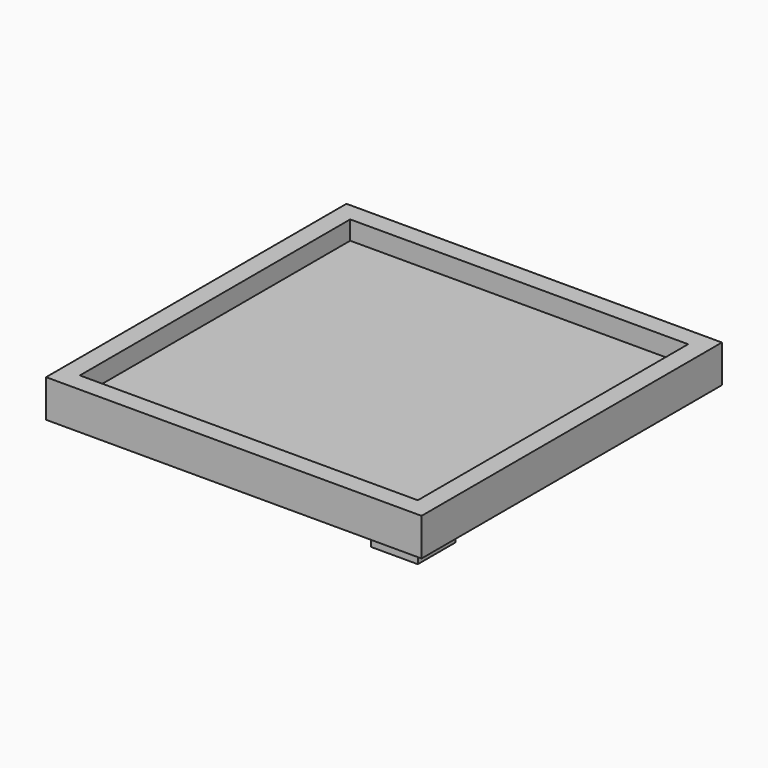
from build123d import *

# Parameters (mm, degrees)
F0_W     = 50.8
F0_H     = 50.8
F1_DEPTH = 2.54
F2_W     = 2.54
F2_H     = 45.72
F3_DEPTH = 2.54
F4_W     = 6.35
F4_H     = 6.35
F5_DEPTH = 2.54


with BuildPart() as f1:
    # F0 (on Top) → F1 (new body)
    with BuildSketch(Plane.XY):
        Rectangle(F0_W, F0_H)
    extrude(amount=F1_DEPTH)

    # F2 (on face) → F3 (join)
    with BuildSketch(Plane.XY.offset(2.54)):
        with Locations((-24.13, 0)):
            Rectangle(F2_W, F2_H)
        Polygon((25.4, 25.4), (-25.4, 25.4), (-25.4, 22.86), (-22.86, 22.86), (22.86, 22.86), (25.4, 22.86), align=None)
        Polygon((25.4, -25.4), (25.4, 22.86), (22.86, 22.86), (22.86, -22.86), (22.86, -25.4), align=None)
        Polygon((-22.86, -22.86), (-25.4, -22.86), (-25.4, -25.4), (22.86, -25.4), (22.86, -22.86), align=None)
    extrude(amount=F3_DEPTH)

    # F4 (on face) → F5 (join)
    with BuildSketch(Plane(origin=(0, 0, 0), x_dir=(1, 0, 0), z_dir=(0, 0, -1))):
        with Locations((19.685, 19.685)):
            Rectangle(F4_W, F4_H)
    extrude(amount=F5_DEPTH)


solid = f1.part
